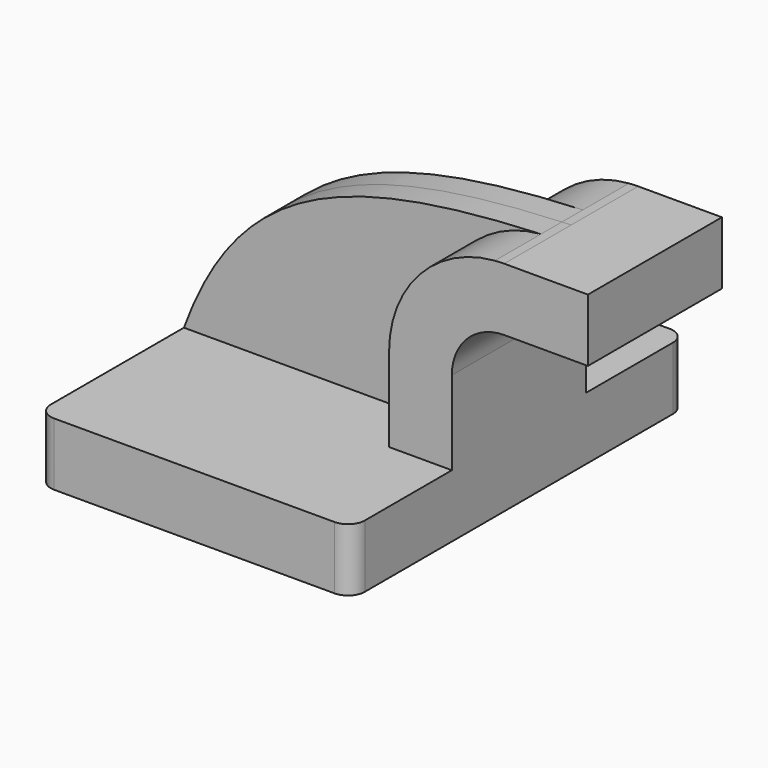
from build123d import *

# Parameters (mm, degrees)
F1_DEPTH = 63.5
F2_DEPTH = 25.4
F3_DEPTH = 7.9375
F4_R     = 5.08


with BuildPart() as f1:
    # F0 (on Front) → F1 (new body, symmetric)
    with BuildSketch(Plane.XZ):
        Polygon((28.575, 9.525), (-47.625, 9.525), (-47.625, -9.525), (47.625, -9.525), (47.625, 9.525), align=None)
    extrude(amount=F1_DEPTH, both=True)

    # F0 (on Front) → F2 (join, symmetric)
    with BuildSketch(Plane.XZ):
        with BuildLine():
            Line((28.575, 34.925), (28.575, 9.525))
            Line((28.575, 9.525), (47.625, 9.525))
            Line((47.625, 9.525), (47.625, 34.925))
            ThreePointArc((47.625, 34.925), (52.27468, 46.15032), (63.5, 50.8))
            Line((63.5, 50.8), (88.9, 50.8))
            Line((88.9, 50.8), (88.9, 69.85))
            Line((88.9, 69.85), (63.5, 69.85))
            add(Edge.make_bspline(
                [(60.686772, 69.736512), (61.617392, 69.776715), (62.555116, 69.814521), (63.5, 69.85)],
                knots=[124.561672, 124.561672, 124.561672, 124.561672, 126.443154, 126.443154, 126.443154, 126.443154], degree=3))
            ThreePointArc((60.686772, 69.736512), (37.828931, 58.605199), (28.575, 34.925))
        make_face()
    extrude(amount=F2_DEPTH, both=True)

    # F0 (on Front) → F3 (join, symmetric)
    with BuildSketch(Plane.XZ):
        with BuildLine():
            add(Edge.make_bspline(
                [(-47.625, 9.525), (-31.403715, 53.903915), (-0.924034, 67.074893), (60.686772, 69.736512)],
                knots=[0, 0, 0, 0, 124.561672, 124.561672, 124.561672, 124.561672], degree=3))
            Line((-47.625, 9.525), (28.575, 9.525))
            Line((28.575, 9.525), (28.575, 34.925))
            ThreePointArc((28.575, 34.925), (37.828931, 58.605199), (60.686772, 69.736512))
        make_face()
    extrude(amount=F3_DEPTH, both=True)

    # F4
    f4_edges = [f1.edges().sort_by_distance(p)[0] for p in [
        (-47.625, -63.5, 0),
        (47.625, -63.5, 0),
        (-47.625, 63.5, 0),
        (47.625, 63.5, 0),
    ]]
    fillet(f4_edges, radius=F4_R)


solid = f1.part
